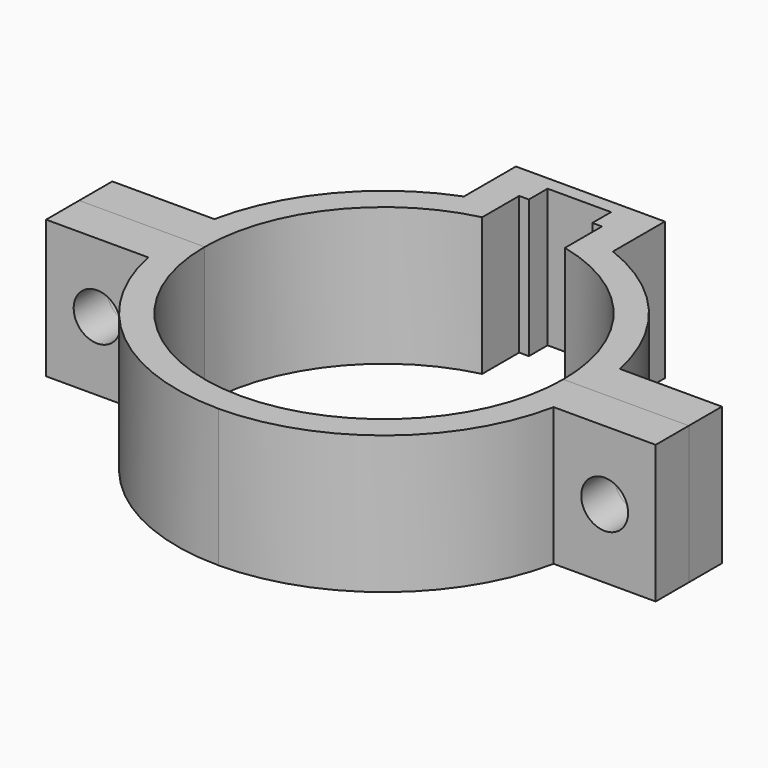
from build123d import *

# Parameters (mm, degrees)
PAD_DEPTH       = 10
SKETCH001_R     = 1.7
POCKET_DEPTH    = 5
PAD001_DEPTH    = 10
SKETCH003_R     = 1.7
POCKET001_DEPTH = 5


with BuildPart() as body:
    # Sketch → Pad (new body)
    with BuildSketch(Plane.XY):
        with BuildLine():
            ThreePointArc((13, 0), (10.198039, 8.062258), (3, 12.649111))
            Line((3, 12.649111), (3, 13))
            Line((3, 13), (3, 16))
            Line((3, 16), (2.3, 16))
            Line((2.3, 16), (2.3, 17.7))
            Line((2.3, 17.7), (0, 17.7))
            Line((0, 17.7), (0, 18.7))
            Line((0, 18.7), (5.4, 18.7))
            Line((5.4, 18.7), (5.4, 13.994285))
            ThreePointArc((14.696938, 3), (11.453834, 9.68554), (5.4, 13.994285))
            Line((22.096938, 3), (14.696938, 3))
            Line((22.096938, 0), (22.096938, 3))
            Line((13, 0), (22.096938, 0))
        make_face()
    pad = extrude(amount=PAD_DEPTH)

    # Sketch001 (on Face1 of Pad) → Pocket (cut)
    with BuildSketch(Plane(origin=(0, 3, 0), x_dir=(-1, 0, 0), z_dir=(0, 1, 0))):
        with Locations((-18.396938, 5)):
            Circle(SKETCH001_R)
    pocket = extrude(amount=-POCKET_DEPTH, mode=Mode.SUBTRACT)

    # Mirrored001: Pad, Pocket across Sketch V_Axis
    add(pad.mirror(Plane(origin=(0, 0, 0), x_dir=(0, 0, 1), z_dir=(1, 0, 0))))
    add(pocket.mirror(Plane(origin=(0, 0, 0), x_dir=(0, 0, 1), z_dir=(1, 0, 0))), mode=Mode.SUBTRACT)


with BuildPart() as body001:
    # Sketch002 → Pad001 (new body)
    with BuildSketch(Plane.XY):
        with BuildLine():
            ThreePointArc((0, -13), (9.192388, -9.192388), (13, 0))
            Line((13, 0), (22.096938, 0))
            Line((22.096938, 0), (22.096938, -3))
            Line((22.096938, -3), (14.696938, -3))
            ThreePointArc((0, -15), (9.486833, -11.61895), (14.696938, -3))
            Line((0, -13), (0, -15))
        make_face()
    pad001 = extrude(amount=PAD001_DEPTH)

    # Sketch003 (on Face4 of Pad001) → Pocket001 (cut)
    with BuildSketch(Plane.XZ.offset(3)):
        with Locations((18.396938, 5)):
            Circle(SKETCH003_R)
    pocket001 = extrude(amount=-POCKET001_DEPTH, mode=Mode.SUBTRACT)

    # Mirrored: Pad001, Pocket001 across Sketch002 V_Axis
    add(pad001.mirror(Plane(origin=(0, 0, 0), x_dir=(0, 0, 1), z_dir=(1, 0, 0))))
    add(pocket001.mirror(Plane(origin=(0, 0, 0), x_dir=(0, 0, 1), z_dir=(1, 0, 0))), mode=Mode.SUBTRACT)


solid = Compound([body.part, body001.part])
